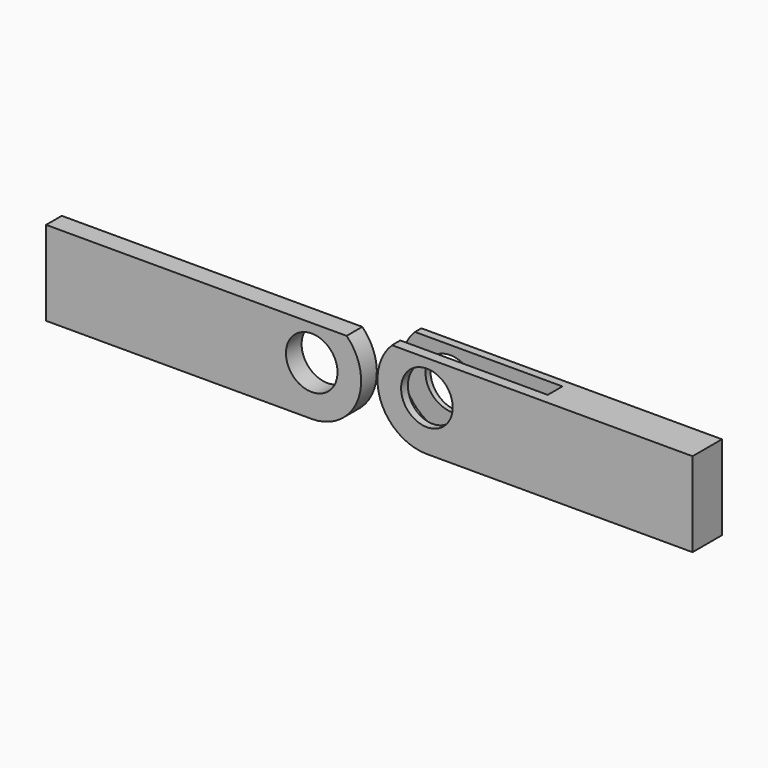
from build123d import *

# Parameters (mm, degrees)
F0_R     = 2.107357614
F1_DEPTH = 3
F2_W     = 14.7599969779
F2_H     = 1.5
F3_DEPTH = 12.5
F3_TAPER = -3
F4_DEPTH = 0.8


with BuildPart() as f1:
    # F0 (on Front) → F1 (new body)
    with BuildSketch(Plane.XZ):
        with BuildLine():
            ThreePointArc((-7.268779725, 6.9034374319), (-8.1519679743, 2.4980690393), (-4.4174073264, 0))
            Line((-4.4174073264, 0), (17.2846987844, 0))
            Line((17.2846987844, 0), (17.2846987844, 6.9034374319))
            Line((17.2846987844, 6.9034374319), (-1.1204044567, 6.9034374319))
            Line((-1.1204044567, 6.9034374319), (-7.268779725, 6.9034374319))
        make_face()
        with Locations((-4.4174073264, 4.0405793115)):
            Circle(F0_R, mode=Mode.SUBTRACT)
    extrude(amount=-F1_DEPTH)

    # F2 (on face) → F3 (cut, symmetric)
    with BuildSketch(Plane.XY.offset(6.9034374319)):
        with Locations((-2.6028734865, 1.5977723524)):
            Rectangle(F2_W, F2_H)
    extrude(amount=F3_DEPTH, both=True, taper=F3_TAPER, mode=Mode.SUBTRACT)


with BuildPart() as f4:
    # F0 (on Front) → F4 (new body, symmetric)
    with BuildSketch(Plane.XZ):
        with BuildLine():
            Line((-10.3355769066, 6.9034374319), (-16.4839521749, 6.9034374319))
            Line((-16.4839521749, 6.9034374319), (-34.889055416, 6.9034374319))
            Line((-34.889055416, 6.9034374319), (-34.889055416, 0))
            Line((-34.889055416, 0), (-13.1869493052, 0))
            ThreePointArc((-13.1869493052, 0), (-9.4523886573, 2.4980690393), (-10.3355769066, 6.9034374319))
        make_face()
        with Locations((-13.1869493052, 4.0405793115)):
            Circle(F0_R, mode=Mode.SUBTRACT)
    extrude(amount=F4_DEPTH, both=True)


solid = Compound([f1.part, f4.part])
